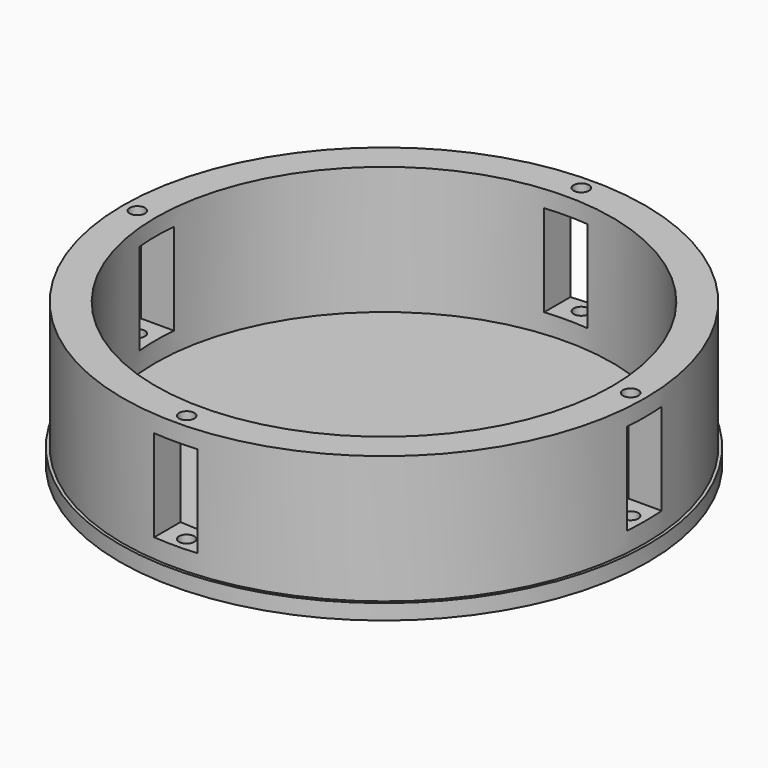
from build123d import *

# Parameters (mm, degrees)
F0_R     = 51.0634311227
F0_R_2   = 44.6472785168
F1_DEPTH = 25
F2_R     = 51.658363485
F3_DEPTH = 3
F4_W     = 8.4723439068
F4_H     = 17.9225206375
F5_DEPTH = 87.2
F6_W     = 8.4723439068
F6_H     = 17.9225206375
F7_DEPTH = 61.9
F8_R     = 1.5
F9_DEPTH = 28.001


with BuildPart() as f1:
    # F0 (on Top) → F1 (new body)
    with BuildSketch(Plane.XY):
        Circle(F0_R)
        Circle(F0_R_2, mode=Mode.SUBTRACT)
    extrude(amount=F1_DEPTH)

    # F2 (on face) → F3 (join)
    with BuildSketch(Plane(origin=(0, 0, 0), x_dir=(1, 0, 0), z_dir=(0, 0, -1))):
        Circle(F2_R)
    extrude(amount=F3_DEPTH)

    # F4 (on Front) → F5 (cut, symmetric)
    with BuildSketch(Plane.XZ):
        with Locations((0, 12.7205625176)):
            Rectangle(F4_W, F4_H)
    extrude(amount=F5_DEPTH, both=True, mode=Mode.SUBTRACT)

    # F6 (on Right) → F7 (cut, symmetric)
    with BuildSketch(Plane.YZ):
        with Locations((0, 12.8065040335)):
            Rectangle(F6_W, F6_H)
    extrude(amount=F7_DEPTH, both=True, mode=Mode.SUBTRACT)

    # F8 (on face) → F9 (cut, through all)
    with BuildSketch(Plane.XY.offset(25)):
        with Locations((0, 48.2453033328)):
            Circle(F8_R)
        with Locations((0, -48.2453033328)):
            Circle(F8_R)
        with Locations((-48.2453033328, 0)):
            Circle(F8_R)
        with Locations((48.2453033328, 0)):
            Circle(F8_R)
    extrude(amount=-F9_DEPTH, mode=Mode.SUBTRACT)


solid = f1.part
